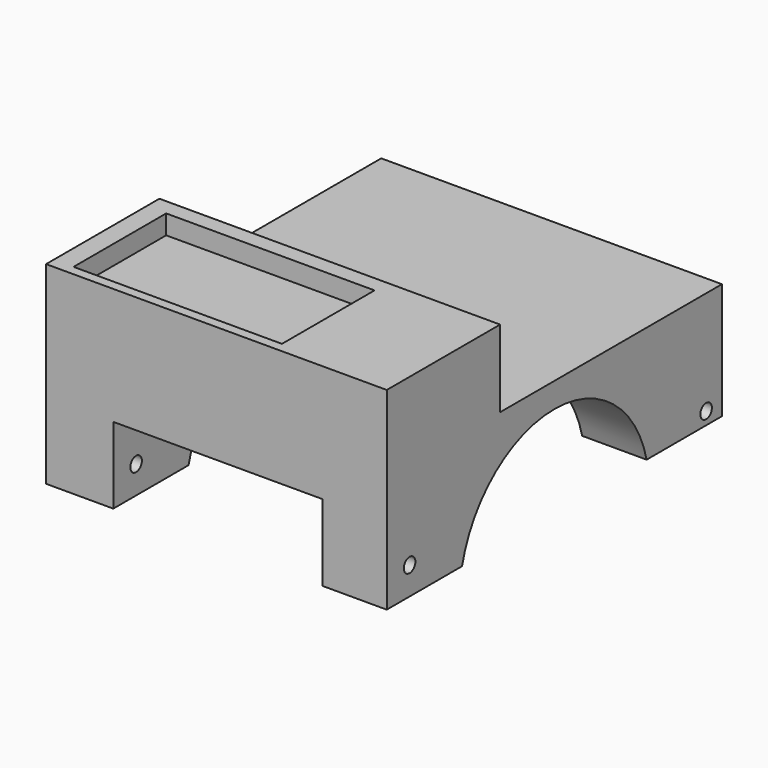
from build123d import *

# Parameters (mm, degrees)
F0_W      = 112.1267676353
F0_H      = 38.257420063
F1_DEPTH  = 137.870118022
F2_W      = 68.7767341733
F2_H      = 25.1477137208
F3_DEPTH  = 137.871118022
F4_R      = 2.38125
F5_DEPTH  = 112.1277676353
F6_R      = 2.38125
F7_DEPTH  = 112.1277676353
F9_DEPTH  = 112.1277676353
F11_DEPTH = 25.4
F12_W     = 68.58
F12_H     = 38.1
F13_DEPTH = 6.35


with BuildPart() as f1:
    # F0 (on Front) → F1 (new body)
    with BuildSketch(Plane.XZ):
        with Locations((-1.3227313757, 19.1287100315)):
            Rectangle(F0_W, F0_H)
    extrude(amount=F1_DEPTH)

    # F2 (on face) → F3 (cut, through all)
    with BuildSketch(Plane.XZ.offset(137.870118022)):
        with Locations((-0.8782893419, 12.5738568604)):
            Rectangle(F2_W, F2_H)
    extrude(amount=-F3_DEPTH, mode=Mode.SUBTRACT)

    # F4 (on face) → F5 (cut, through all)
    with BuildSketch(Plane.YZ.offset(54.740652442)):
        with Locations((-128.4904330969, 9.1332495213)):
            Circle(F4_R)
    extrude(amount=-F5_DEPTH, mode=Mode.SUBTRACT)

    # F6 (on face) → F7 (cut, through all)
    with BuildSketch(Plane.YZ.offset(54.740652442)):
        with Locations((-6.499979645, 4.1290447116)):
            Circle(F6_R)
    extrude(amount=-F7_DEPTH, mode=Mode.SUBTRACT)

    # F8 (on face) → F9 (cut, through all)
    with BuildSketch(Plane.YZ.offset(54.740652442)):
        with BuildLine():
            Line((-106.8989974441, 0), (-30.9711205779, 0))
            ThreePointArc((-30.9711205779, 0), (-68.935059011, 30.0939472481), (-106.8989974441, 0))
        make_face()
    extrude(amount=-F9_DEPTH, mode=Mode.SUBTRACT)

    # F10 (on face) → F11 (join)
    with BuildSketch(Plane.XY.offset(38.257420063)):
        Polygon((54.740652442, -91.2534669042), (0, -91.2534669042), (-57.3861151934, -91.2534669042), (-57.3861151934, -137.870118022), (54.740652442, -137.870118022), align=None)
    extrude(amount=F11_DEPTH)

    # F12 (on face) → F13 (cut)
    with BuildSketch(Plane.XY.offset(63.657420063)):
        with Locations((-16.6207363016, -115.6102344394)):
            Rectangle(F12_W, F12_H)
    extrude(amount=-F13_DEPTH, mode=Mode.SUBTRACT)


solid = f1.part
